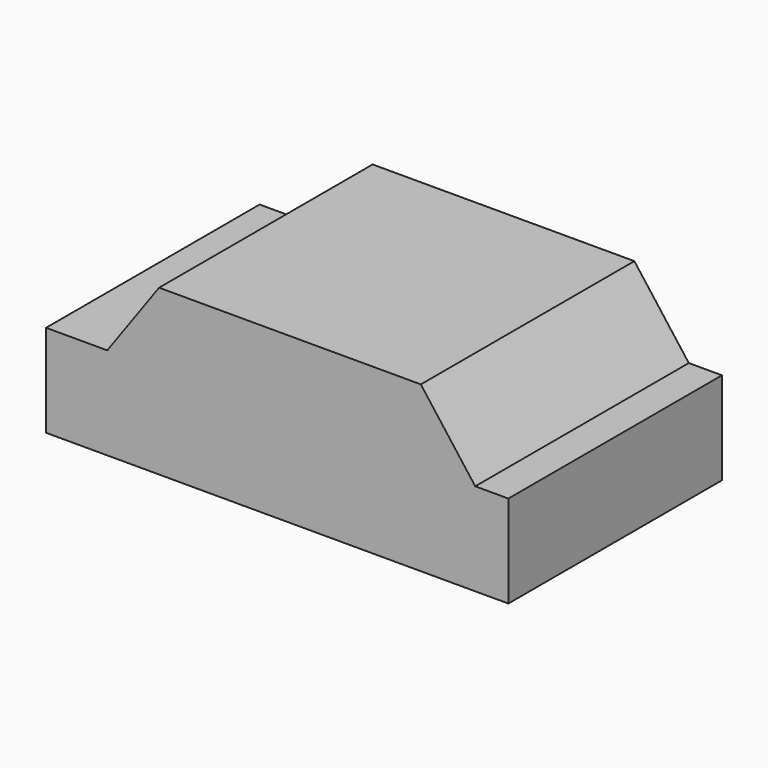
from build123d import *

# Parameters (mm, degrees)
F0_W     = 43.9917519689
F0_H     = 8.7983510457
F1_DEPTH = 25.4
F3_DEPTH = 25.4


with BuildPart() as f1:
    # F0 (on Front) → F1 (new body)
    with BuildSketch(Plane.XZ):
        with Locations((3.4826807678, 0.0916493591)):
            Rectangle(F0_W, F0_H)
    extrude(amount=F1_DEPTH)

    # F2 (on face) → F3 (join)
    with BuildSketch(Plane.XZ.offset(25.4)):
        Polygon((-7.7598788776, 11.3449869677), (-12.6920454204, 4.4908248819), (22.3263110965, 4.4908248819), (17.1475466341, 11.3449869677), align=None)
    extrude(amount=-F3_DEPTH)


solid = f1.part
